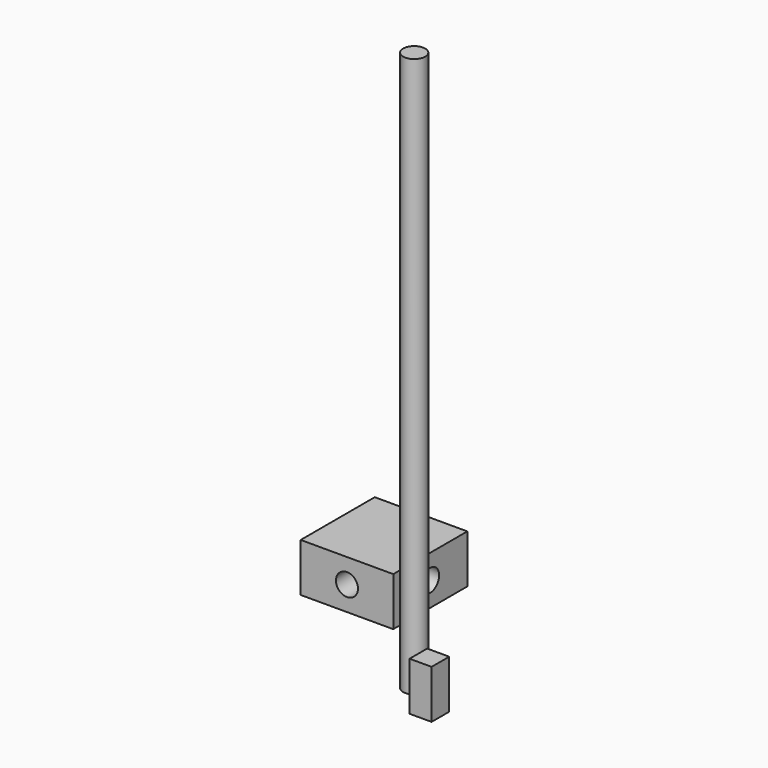
from build123d import *

# Parameters (mm, degrees)
F0_W      = 37.829503
F0_H      = 37.829503
F1_DEPTH  = 9.906
F6_D      = 9
F7_D      = 9
F8_R      = 4.5
F9_DEPTH  = 228.6
F10_W     = 9
F10_H     = 9
F11_DEPTH = 19.812


with BuildPart() as f1:
    # F0 (on Top) → F1 (new body, symmetric)
    with BuildSketch(Plane.XY):
        with Locations((-18.914751, 18.914751)):
            Rectangle(F0_W, F0_H)
    extrude(amount=F1_DEPTH, both=True)

    # F6 (through all)
    with Locations(Plane.YZ):
        with Locations((18.914752, 0), (-18.914752, 0)):
            Hole(F6_D / 2)

    # F7 (through all)
    with Locations(Plane(origin=(0, 37.829503, 0), x_dir=(-1, 0, 0), z_dir=(0, 1, 0))):
        with Locations((18.914752, 0), (-18.914752, 0)):
            Hole(F7_D / 2)


with BuildPart() as f9:
    # F8 (on Top) → F9 (new body)
    with BuildSketch(Plane.XY):
        with Locations((42.491149, -42.422224)):
            Circle(F8_R)
    extrude(amount=F9_DEPTH)


with BuildPart() as f11:
    # F10 (on Top) → F11 (new body)
    with BuildSketch(Plane.XY):
        with Locations((56.974558, -52.762169)):
            Rectangle(F10_W, F10_H)
    extrude(amount=F11_DEPTH)


solid = Compound([f1.part, f9.part, f11.part])
